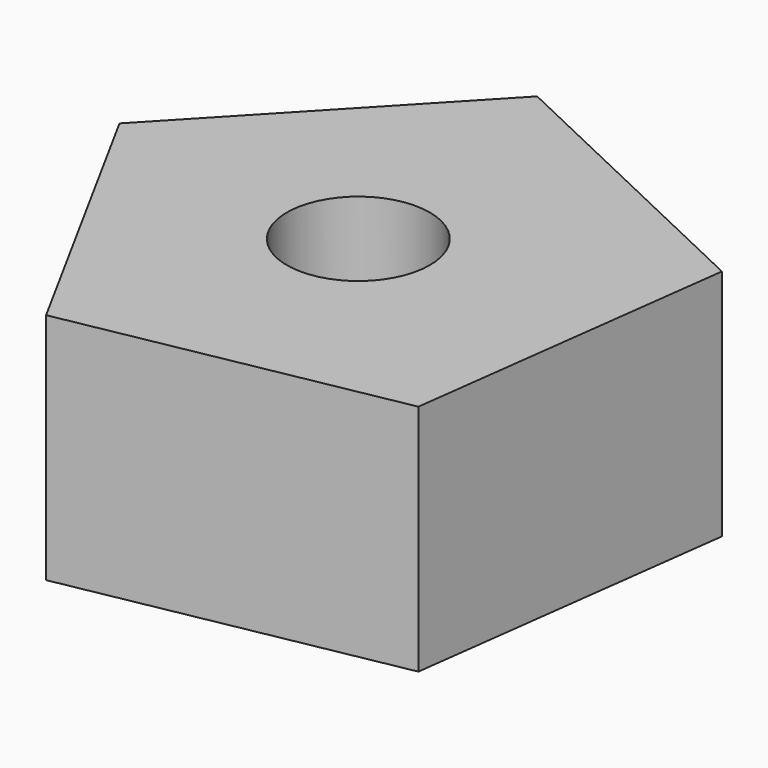
from build123d import *

# Parameters (mm, degrees)
F1_DEPTH = 70.104
F2_R     = 21.47445
F3_DEPTH = 109.474


with BuildPart() as f1:
    # F0 (on Top) → F1 (new body)
    with BuildSketch(Plane.XY):
        Polygon((-83.50484, 10.792118), (-36.068329, -76.082874), (61.213387, -57.81392), (73.900282, 40.351907), (-15.540501, 82.75277), align=None)
    extrude(amount=F1_DEPTH)

    # F2 (on face) → F3 (cut)
    with BuildSketch(Plane.XY.offset(70.104)):
        with Locations((-3.094092, 0)):
            Circle(F2_R)
    extrude(amount=-F3_DEPTH, mode=Mode.SUBTRACT)


solid = f1.part
